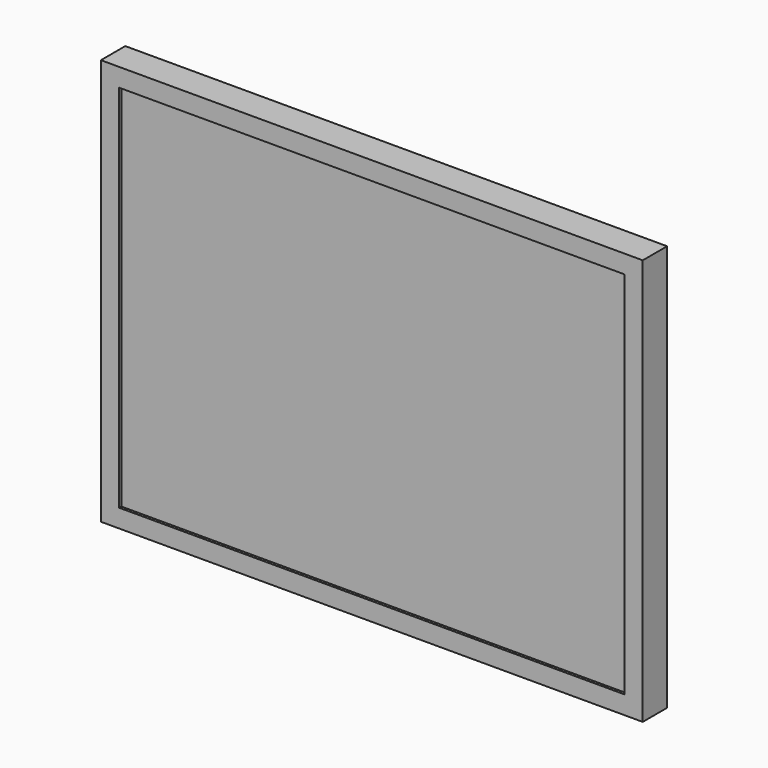
from build123d import *

# Parameters (mm, degrees)
F0_W     = 55
F0_H     = 560
F1_DEPTH = 800
F2_W     = 55
F2_H     = 560
F3_DEPTH = 25
F4_SIZE2 = 45
F4_SIZE  = 100
F5_W     = 746
F5_H     = 546
F6_DEPTH = 4
F8_DEPTH = 25


with BuildPart() as f1:
    # F0 (on Right) → F1 (new body)
    with BuildSketch(Plane.YZ):
        Polygon((22.5, 300), (-22.5, 300), (-22.5, -300), (22.5, -300), (22.5, -280), (22.5, 280), align=None)
        with Locations((50, 0)):
            Rectangle(F0_W, F0_H)
    extrude(amount=F1_DEPTH)

    # F2 (on face) + F0 (on Right) → F3 (cut, symmetric)
    with BuildSketch(Plane.YZ.offset(800)):
        with Locations((50, 0)):
            Rectangle(F2_W, F2_H)
    with BuildSketch(Plane.YZ):
        with Locations((50, 0)):
            Rectangle(F0_W, F0_H)
    extrude(amount=F3_DEPTH, both=True, mode=Mode.SUBTRACT)

    # F4
    f4_edges = [f1.edges().sort_by_distance(p)[0] for p in [
        (25, 77.5, 0),
        (400, 77.5, 280),
        (775, 77.5, 0),
        (400, 77.5, -280),
    ]]
    f4_side = f1.faces().sort_by_distance((400, 77.5, 0))[0]
    chamfer(f4_edges, length=F4_SIZE, length2=F4_SIZE2, reference=f4_side)

    # F5 (on face) → F6 (cut)
    with BuildSketch(Plane.XZ.offset(22.5)):
        with Locations((400, 0)):
            Rectangle(F5_W, F5_H)
    extrude(amount=-F6_DEPTH, mode=Mode.SUBTRACT)

    # F7 (on face) → F8 (cut)
    with BuildSketch(Plane(origin=(0, 77.5, 0), x_dir=(-1, 0, 0), z_dir=(0, 1, 0))):
        with BuildLine():
            ThreePointArc((-525, 94), (-529, 90), (-525, 86))
            Line((-525, 86), (-525, 94))
        make_face()
        with BuildLine():
            Line((-525, 94), (-525, 86))
            ThreePointArc((-525, 86), (-522.1715728753, 87.1715728753), (-521, 90))
            ThreePointArc((-521, 90), (-522.1715728753, 92.8284271247), (-525, 94))
        make_face()
        with BuildLine():
            ThreePointArc((-525, -86), (-529, -90), (-525, -94))
            Line((-525, -94), (-525, -86))
        make_face()
        with BuildLine():
            Line((-525, -86), (-525, -94))
            ThreePointArc((-525, -94), (-522.1715728753, -92.8284271247), (-521, -90))
            ThreePointArc((-521, -90), (-522.1715728753, -87.1715728753), (-525, -86))
        make_face()
        with BuildLine():
            ThreePointArc((-275, -86), (-279, -90), (-275, -94))
            Line((-275, -94), (-275, -86))
        make_face()
        with BuildLine():
            Line((-275, -86), (-275, -94))
            ThreePointArc((-275, -94), (-272.1715728753, -92.8284271247), (-271, -90))
            ThreePointArc((-271, -90), (-272.1715728753, -87.1715728753), (-275, -86))
        make_face()
        with BuildLine():
            ThreePointArc((-275, 94), (-279, 90), (-275, 86))
            Line((-275, 86), (-275, 94))
        make_face()
        with BuildLine():
            Line((-275, 94), (-275, 86))
            ThreePointArc((-275, 86), (-272.1715728753, 87.1715728753), (-271, 90))
            ThreePointArc((-271, 90), (-272.1715728753, 92.8284271247), (-275, 94))
        make_face()
    extrude(amount=-F8_DEPTH, mode=Mode.SUBTRACT)


solid = f1.part
